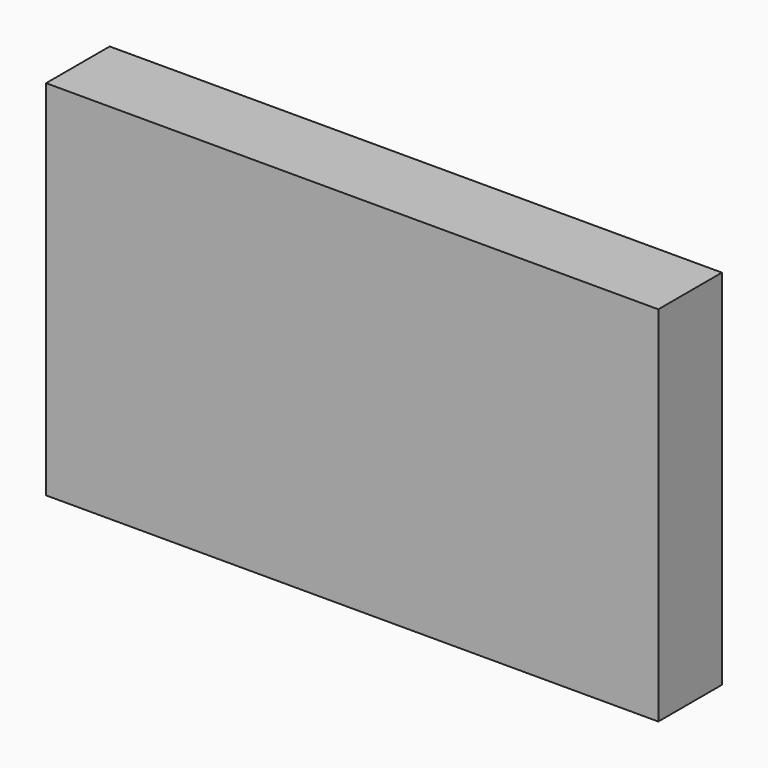
from build123d import *

# Parameters (mm, degrees)
F0_W     = 9.781308
F0_H     = 11.596158
F1_DEPTH = 2.54


with BuildPart() as f1:
    # F0 (on Front) → F1 (new body)
    with BuildSketch(Plane.XZ):
        with Locations((4.890654, -25.019281)):
            Rectangle(F0_W, F0_H)
        with Locations((-4.890654, -25.019281)):
            Rectangle(F0_W, F0_H)
    extrude(amount=-F1_DEPTH)


solid = f1.part
